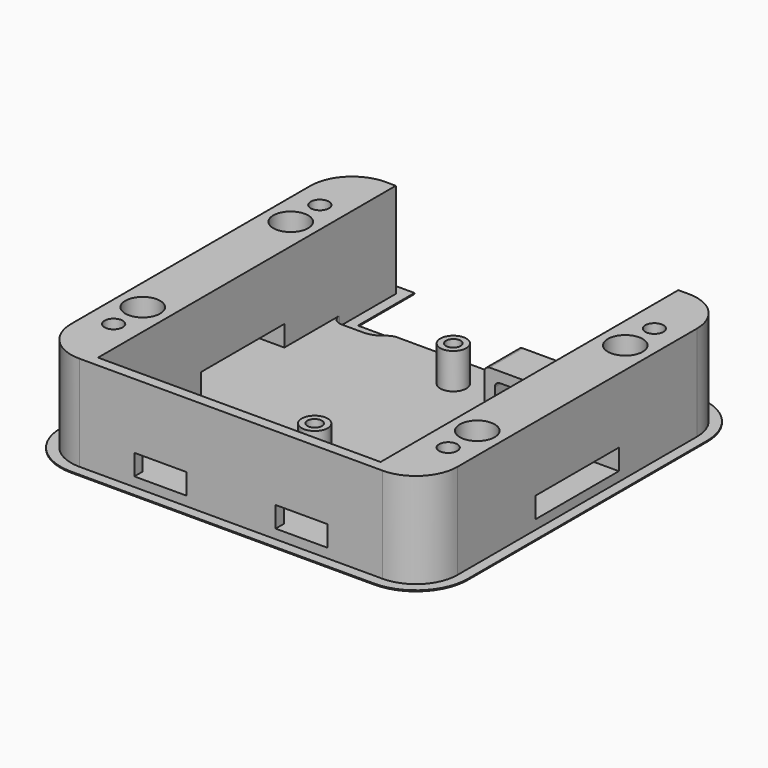
from build123d import *

# Parameters (mm, degrees)
F1_R      = 1.75
F1_R_2    = 3.35
F2_DEPTH  = 2
F3_R      = 2
F4_R      = 1.75
F4_R_2    = 3.35
F5_DEPTH  = 16.51
F6_SIZE2  = 2.8
F6_SIZE   = 1.6
F7_R      = 2.5
F7_R_2    = 1.4
F8_DEPTH  = 6.85
F9_W      = 20
F9_H      = 4
F10_DEPTH = 10.001
F11_W     = 20
F11_H     = 4
F12_DEPTH = 10.001
F13_W     = 10
F13_H     = 4
F14_DEPTH = 2.001
F15_W     = 20
F15_H     = 8
F16_DEPTH = 6
F17_W     = 18
F17_H     = 4
F18_DEPTH = 8
F19_R     = 1
F21_DEPTH = 0.2


with BuildPart() as f2:
    # F1 (on Top) → F2 (new body)
    with BuildSketch(Plane.XY):
        with BuildLine():
            ThreePointArc((8, 73.58), (2.343146, 71.236854), (0, 65.58))
            Line((0, 65.58), (0, 8))
            ThreePointArc((0, 8), (2.343146, 2.343146), (8, 0))
            Line((8, 0), (66.34, 0))
            ThreePointArc((66.34, 0), (71.996854, 2.343146), (74.34, 8))
            Line((74.34, 8), (74.34, 65.58))
            ThreePointArc((74.34, 65.58), (71.996854, 71.236854), (66.34, 73.58))
            Line((66.34, 73.58), (64.34, 73.58))
            Line((64.34, 73.58), (64.34, 59.98))
            Line((64.34, 59.98), (21.181552, 59.98))
            ThreePointArc((21.181552, 59.98), (20.280164, 59.811845), (19.500034, 59.33))
            ThreePointArc((19.500034, 59.33), (17.939776, 58.36631), (16.137, 58.03))
            Line((16.137, 58.03), (10, 58.03))
            Line((10, 58.03), (10, 73.58))
            Line((10, 73.58), (8, 73.58))
        make_face()
        with Locations((5, 12)):
            Circle(F1_R, mode=Mode.SUBTRACT)
        with Locations((5, 19)):
            Circle(F1_R_2, mode=Mode.SUBTRACT)
        with Locations((69.34, 12)):
            Circle(F1_R, mode=Mode.SUBTRACT)
        with Locations((69.34, 19)):
            Circle(F1_R_2, mode=Mode.SUBTRACT)
        with Locations((5, 54.58)):
            Circle(F1_R_2, mode=Mode.SUBTRACT)
        with Locations((5, 61.58)):
            Circle(F1_R, mode=Mode.SUBTRACT)
        with Locations((69.34, 54.58)):
            Circle(F1_R_2, mode=Mode.SUBTRACT)
        with Locations((69.34, 61.58)):
            Circle(F1_R, mode=Mode.SUBTRACT)
    extrude(amount=-F2_DEPTH)

    # F3
    f3_edges = [f2.edges().sort_by_distance(p)[0] for p in [
        (10, 58.03, -1),
        (64.34, 59.98, -1),
    ]]
    fillet(f3_edges, radius=F3_R)

    # F4 (on face) → F5 (join)
    with BuildSketch(Plane.XY):
        with BuildLine():
            ThreePointArc((8, 73.58), (2.343146, 71.236854), (0, 65.58))
            Line((0, 65.58), (0, 8))
            ThreePointArc((0, 8), (2.343146, 2.343146), (8, 0))
            Line((8, 0), (66.34, 0))
            ThreePointArc((66.34, 0), (71.996854, 2.343146), (74.34, 8))
            Line((74.34, 8), (74.34, 65.58))
            ThreePointArc((74.34, 65.58), (71.996854, 71.236854), (66.34, 73.58))
            Line((66.34, 73.58), (64.34, 73.58))
            Line((64.34, 73.58), (64.34, 2))
            Line((64.34, 2), (10, 2))
            Line((10, 2), (10, 73.58))
            Line((10, 73.58), (8, 73.58))
        make_face()
        with Locations((5, 12)):
            Circle(F4_R, mode=Mode.SUBTRACT)
        with Locations((5, 19)):
            Circle(F4_R_2, mode=Mode.SUBTRACT)
        with Locations((69.34, 12)):
            Circle(F4_R, mode=Mode.SUBTRACT)
        with Locations((69.34, 19)):
            Circle(F4_R_2, mode=Mode.SUBTRACT)
        with Locations((5, 54.58)):
            Circle(F4_R_2, mode=Mode.SUBTRACT)
        with Locations((5, 61.58)):
            Circle(F4_R, mode=Mode.SUBTRACT)
        with Locations((69.34, 54.58)):
            Circle(F4_R_2, mode=Mode.SUBTRACT)
        with Locations((69.34, 61.58)):
            Circle(F4_R, mode=Mode.SUBTRACT)
    extrude(amount=F5_DEPTH)

    # F6
    f6_edges = [f2.edges().sort_by_distance(p)[0] for p in [
        (3.25, 61.58, -2),
        (3.25, 12, -2),
        (67.59, 12, -2),
        (67.59, 61.58, -2),
    ]]
    chamfer(f6_edges, length=F6_SIZE, length2=F6_SIZE2)

    # F7 (on face) → F8 (join)
    with BuildSketch(Plane.XY):
        with Locations((37.17, 53.45)):
            Circle(F7_R)
        with Locations((37.17, 53.45)):
            Circle(F7_R_2, mode=Mode.SUBTRACT)
        with Locations((37.17, 20.13)):
            Circle(F7_R)
        with Locations((37.17, 20.13)):
            Circle(F7_R_2, mode=Mode.SUBTRACT)
    extrude(amount=F8_DEPTH)

    # F9 (on face) → F10 (cut, through all)
    with BuildSketch(Plane.YZ.offset(10)):
        with Locations((36.79, 2)):
            Rectangle(F9_W, F9_H)
    extrude(amount=-F10_DEPTH, mode=Mode.SUBTRACT)

    # F11 (on face) → F12 (cut, through all)
    with BuildSketch(Plane(origin=(64.34, 0, 0), x_dir=(0, -1, 0), z_dir=(-1, 0, 0))):
        with Locations((-36.79, 2)):
            Rectangle(F11_W, F11_H)
    extrude(amount=-F12_DEPTH, mode=Mode.SUBTRACT)

    # F13 (on face) → F14 (cut, through all)
    with BuildSketch(Plane(origin=(0, 2, 0), x_dir=(-1, 0, 0), z_dir=(0, 1, 0))):
        with Locations((-50.755, 2)):
            Rectangle(F13_W, F13_H)
        with Locations((-23.585, 2)):
            Rectangle(F13_W, F13_H)
    extrude(amount=-F14_DEPTH, mode=Mode.SUBTRACT)

    # F15 (on face) → F16 (join)
    with BuildSketch(Plane.XY):
        with Locations((54.34, 55.98)):
            Rectangle(F15_W, F15_H)
    extrude(amount=F16_DEPTH)

    # F17 (on face) → F18 (cut, through all)
    with BuildSketch(Plane(origin=(0, 59.98, 0), x_dir=(-1, 0, 0), z_dir=(0, 1, 0))):
        with Locations((-55.34, 2)):
            Rectangle(F17_W, F17_H)
    extrude(amount=-F18_DEPTH, mode=Mode.SUBTRACT)

    # F19
    f19_edges = [f2.edges().sort_by_distance(p)[0] for p in [
        (46.34, 55.98, 4),
        (44.34, 55.98, 6),
    ]]
    fillet(f19_edges, radius=F19_R)

    # F20 (on face) → F21 (join)
    with BuildSketch(Plane(origin=(0, 0, -2), x_dir=(1, 0, 0), z_dir=(0, 0, -1))):
        with BuildLine():
            ThreePointArc((8, 2), (0.928932, -0.928932), (-2, -8))
            Line((-2, -8), (-2, -65.58))
            ThreePointArc((-2, -65.58), (0.928932, -72.651068), (8, -75.58))
            Line((8, -75.58), (12, -75.58))
            Line((12, -75.58), (12, -61.98))
            Line((12, -61.98), (62.34, -61.98))
            Line((62.34, -61.98), (62.34, -75.58))
            Line((62.34, -75.58), (66.34, -75.58))
            ThreePointArc((66.34, -75.58), (73.411068, -72.651068), (76.34, -65.58))
            Line((76.34, -65.58), (76.34, -8))
            ThreePointArc((76.34, -8), (73.411068, -0.928932), (66.34, 2))
            Line((66.34, 2), (8, 2))
        make_face()
        with BuildLine():
            Line((0, -65.58), (0, -8))
            ThreePointArc((0, -8), (2.343146, -2.343146), (8, 0))
            Line((8, 0), (66.34, 0))
            ThreePointArc((66.34, 0), (71.996854, -2.343146), (74.34, -8))
            Line((74.34, -8), (74.34, -65.58))
            ThreePointArc((74.34, -65.58), (71.996854, -71.236854), (66.34, -73.58))
            Line((66.34, -73.58), (64.34, -73.58))
            Line((64.34, -73.58), (64.34, -61.98))
            ThreePointArc((64.34, -61.98), (63.754214, -60.565786), (62.34, -59.98))
            Line((62.34, -59.98), (21.181552, -59.98))
            ThreePointArc((21.181552, -59.98), (20.280164, -59.811845), (19.500034, -59.33))
            ThreePointArc((19.500034, -59.33), (17.939776, -58.36631), (16.137, -58.03))
            Line((16.137, -58.03), (12, -58.03))
            ThreePointArc((12, -58.03), (10.585786, -58.615786), (10, -60.03))
            Line((10, -60.03), (10, -73.58))
            Line((10, -73.58), (8, -73.58))
            ThreePointArc((8, -73.58), (2.343146, -71.236854), (0, -65.58))
        make_face(mode=Mode.SUBTRACT)
    extrude(amount=-F21_DEPTH)


solid = f2.part
